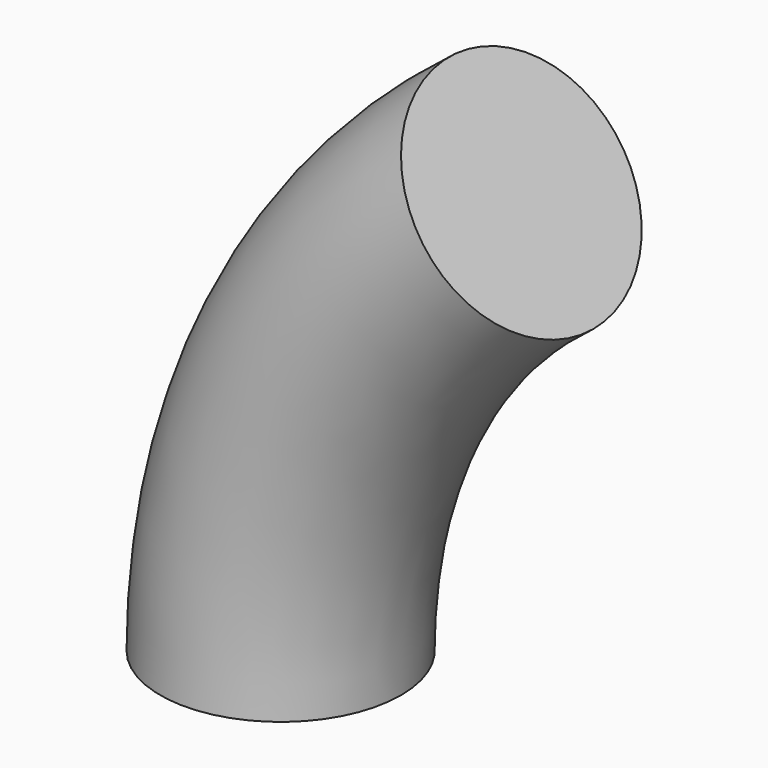
from build123d import *

# Parameters (mm, degrees)
F0_R = 12.5


with BuildPart() as f2:
    # F2: sweep along a path in F1
    with BuildLine(Plane.XZ) as f2_path:
        ThreePointArc((25, 50), (6.598301, 27.95085), (0, 0))
    # F0 (on Top) → F2 (sweep)
    with BuildSketch(Plane.XY):
        Circle(F0_R)
    sweep(path=f2_path.line)


solid = f2.part
